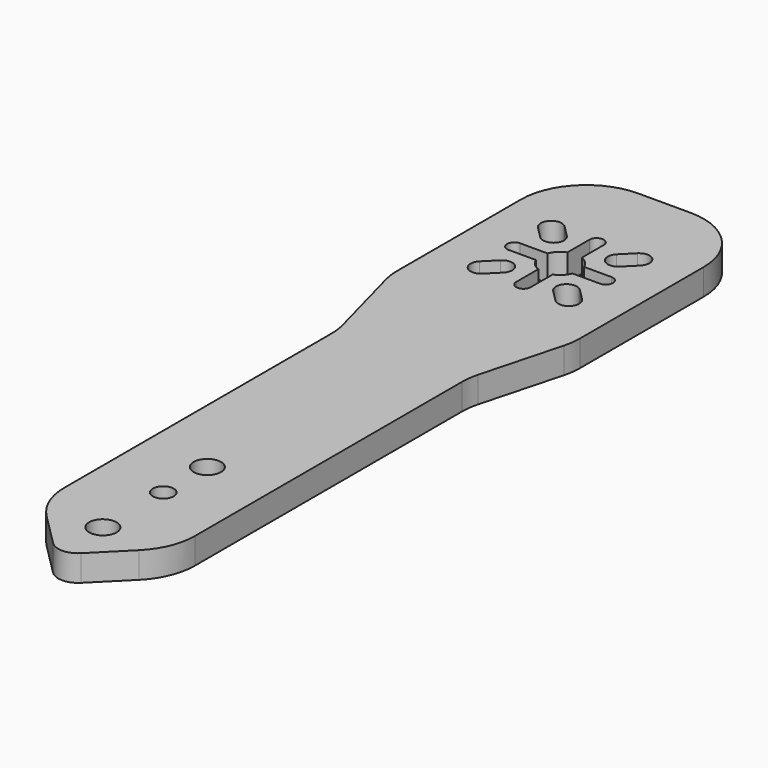
from build123d import *

# Parameters (mm, degrees)
F0_R     = 2.1
F0_R_2   = 1.6
F1_DEPTH = 4
F2_R     = 10
F3_R     = 3


with BuildPart() as f1:
    # F0 (on Top) → F1 (new body)
    with BuildSketch(Plane.XY):
        Polygon((-10, 67.571797), (-10, 11), (0, 1), (10, 11), (10, 67.571797), (14, 82.5), (14, 117.5), (-14, 117.5), (-14, 82.5), align=None)
        with Locations((0, 10)):
            Circle(F0_R, mode=Mode.SUBTRACT)
        with Locations((0, 21.566757)):
            Circle(F0_R_2, mode=Mode.SUBTRACT)
        with Locations((0, 30)):
            Circle(F0_R, mode=Mode.SUBTRACT)
        with BuildLine():
            ThreePointArc((-5.586144, 89.651115), (-7.848885, 89.651115), (-7.848885, 91.913856))
            Line((-7.848885, 91.913856), (-6.081118, 93.681623))
            ThreePointArc((-6.081118, 93.681623), (-3.818377, 93.681623), (-3.818377, 91.418882))
            Line((-3.818377, 91.418882), (-5.586144, 89.651115))
        make_face(mode=Mode.SUBTRACT)
        with BuildLine():
            ThreePointArc((-7.848885, 103.086144), (-7.848885, 105.348885), (-5.586144, 105.348885))
            Line((-5.586144, 105.348885), (-3.818377, 103.581118))
            ThreePointArc((-3.818377, 103.581118), (-3.818377, 101.318377), (-6.081118, 101.318377))
            Line((-6.081118, 101.318377), (-7.848885, 103.086144))
        make_face(mode=Mode.SUBTRACT)
        with BuildLine():
            ThreePointArc((1.1, 100.291057), (2.12132, 99.62132), (2.791057, 98.6))
            Line((2.791057, 98.6), (7, 98.6))
            ThreePointArc((7, 98.6), (8.1, 97.5), (7, 96.4))
            Line((7, 96.4), (2.791057, 96.4))
            ThreePointArc((2.791057, 96.4), (2.12132, 95.37868), (1.1, 94.708943))
            Line((1.1, 94.708943), (1.1, 90.5))
            ThreePointArc((1.1, 90.5), (0, 89.4), (-1.1, 90.5))
            Line((-1.1, 90.5), (-1.1, 94.708943))
            ThreePointArc((-1.1, 94.708943), (-2.12132, 95.37868), (-2.791057, 96.4))
            Line((-2.791057, 96.4), (-7, 96.4))
            ThreePointArc((-7, 96.4), (-8.1, 97.5), (-7, 98.6))
            Line((-7, 98.6), (-2.791057, 98.6))
            ThreePointArc((-2.791057, 98.6), (-2.12132, 99.62132), (-1.1, 100.291057))
            Line((-1.1, 100.291057), (-1.1, 104.5))
            ThreePointArc((-1.1, 104.5), (0, 105.6), (1.1, 104.5))
            Line((1.1, 104.5), (1.1, 100.291057))
        make_face(mode=Mode.SUBTRACT)
        with BuildLine():
            ThreePointArc((7.848885, 91.913856), (7.848885, 89.651115), (5.586144, 89.651115))
            Line((5.586144, 89.651115), (3.818377, 91.418882))
            ThreePointArc((3.818377, 91.418882), (3.818377, 93.681623), (6.081118, 93.681623))
            Line((6.081118, 93.681623), (7.848885, 91.913856))
        make_face(mode=Mode.SUBTRACT)
        with BuildLine():
            ThreePointArc((5.586144, 105.348885), (7.848885, 105.348885), (7.848885, 103.086144))
            Line((7.848885, 103.086144), (6.081118, 101.318377))
            ThreePointArc((6.081118, 101.318377), (3.818377, 101.318377), (3.818377, 103.581118))
            Line((3.818377, 103.581118), (5.586144, 105.348885))
        make_face(mode=Mode.SUBTRACT)
    extrude(amount=F1_DEPTH)

    # F2
    f2_edges = [f1.edges().sort_by_distance(p)[0] for p in [
        (-14, 82.5, 2),
        (-10, 67.571797, 2),
        (-10, 11, 2),
        (10, 11, 2),
        (10, 67.571797, 2),
        (14, 82.5, 2),
        (-14, 117.5, 2),
        (14, 117.5, 2),
    ]]
    fillet(f2_edges, radius=F2_R)

    # F3
    f3_edges = [f1.edges().sort_by_distance(p)[0] for p in [
        (0, 1, 2),
    ]]
    fillet(f3_edges, radius=F3_R)


solid = f1.part
